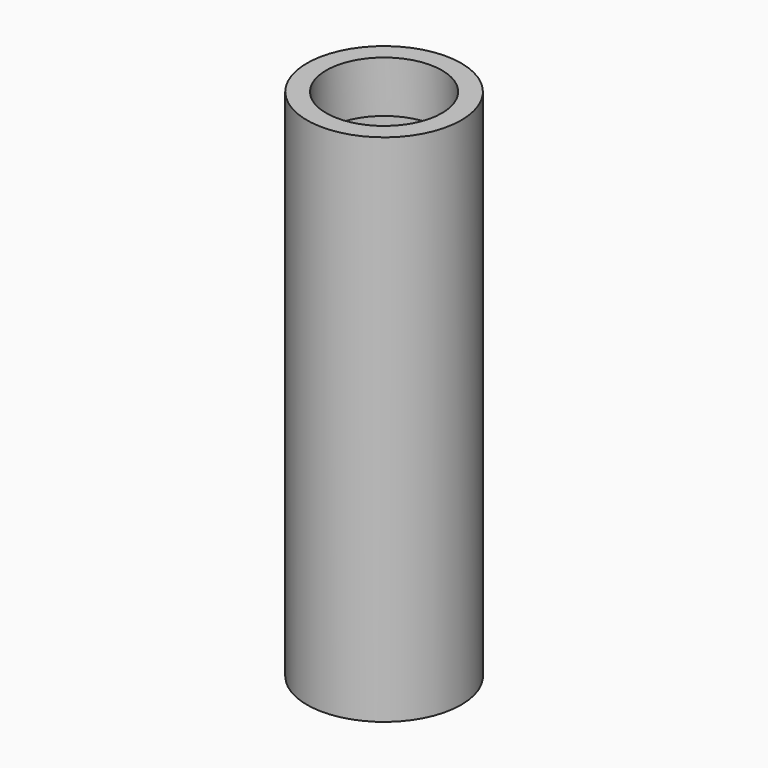
from build123d import *

# Parameters (mm, degrees)
F0_R     = 19.05
F1_DEPTH = 127
F2_R     = 14.2875
F3_DEPTH = 127.001
F4_R     = 17.78
F5_DEPTH = 114.3


with BuildPart() as f1:
    # F0 (on Top) → F1 (new body)
    with BuildSketch(Plane.XY):
        Circle(F0_R)
    extrude(amount=F1_DEPTH)

    # F2 (on face) → F3 (cut, through all)
    with BuildSketch(Plane.XY.offset(127)):
        Circle(F2_R)
    extrude(amount=-F3_DEPTH, mode=Mode.SUBTRACT)

    # F4 (on face) → F5 (cut)
    with BuildSketch(Plane(origin=(0, 0, 0), x_dir=(1, 0, 0), z_dir=(0, 0, -1))):
        Circle(F4_R)
    extrude(amount=-F5_DEPTH, mode=Mode.SUBTRACT)


solid = f1.part
